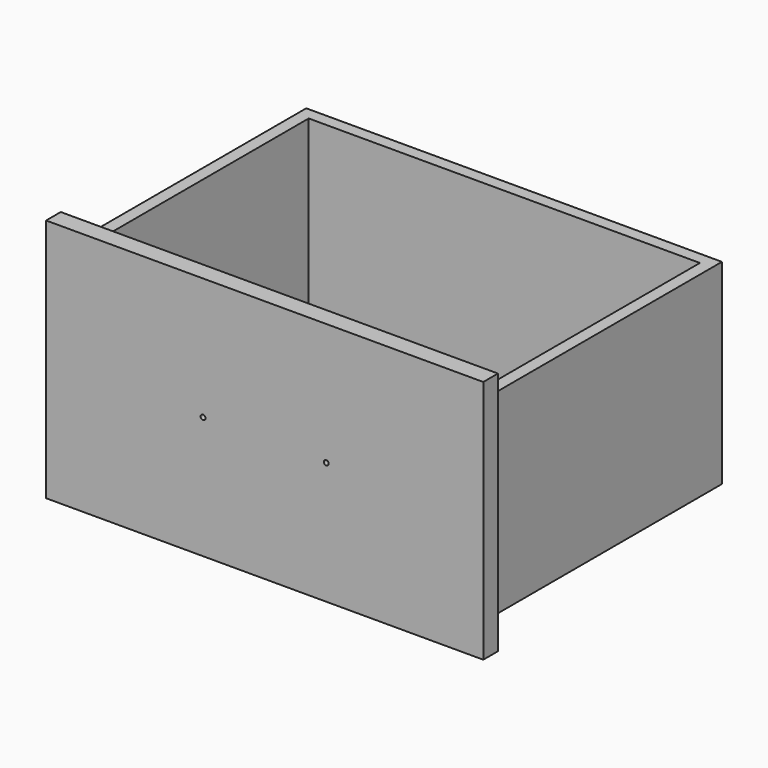
from build123d import *

# Parameters (mm, degrees)
F0_W     = 431.8
F0_H     = 304.8
F0_W_2   = 406.4
F0_H_2   = 279.4
F1_DEPTH = 203.2
F2_W     = 279.4
F2_H     = 6.35
F3_DEPTH = 406.4
F4_W     = 454.152
F4_H     = 254
F5_DEPTH = 19.05
F7_D     = 5.0038
F7_DEPTH = 31.75


with BuildPart() as f1:
    # F0 (on Top) → F1 (new body)
    with BuildSketch(Plane.XY):
        Rectangle(F0_W, F0_H)
        Rectangle(F0_W_2, F0_H_2, mode=Mode.SUBTRACT)
    extrude(amount=F1_DEPTH)

    # F2 (on face) → F3 (join, through all)
    with BuildSketch(Plane.YZ.offset(-203.2)):
        with Locations((0, 9.525)):
            Rectangle(F2_W, F2_H)
    extrude(amount=F3_DEPTH)

    # F4 (on face) → F5 (join)
    with BuildSketch(Plane.XZ.offset(152.4)):
        with Locations((0, 101.6)):
            Rectangle(F4_W, F4_H)
    extrude(amount=F5_DEPTH)

    # F7
    with Locations(Plane.XZ.offset(171.45)):
        with Locations((-64.008, 101.6), (64.008, 101.6)):
            Hole(F7_D / 2, depth=F7_DEPTH)


solid = f1.part
